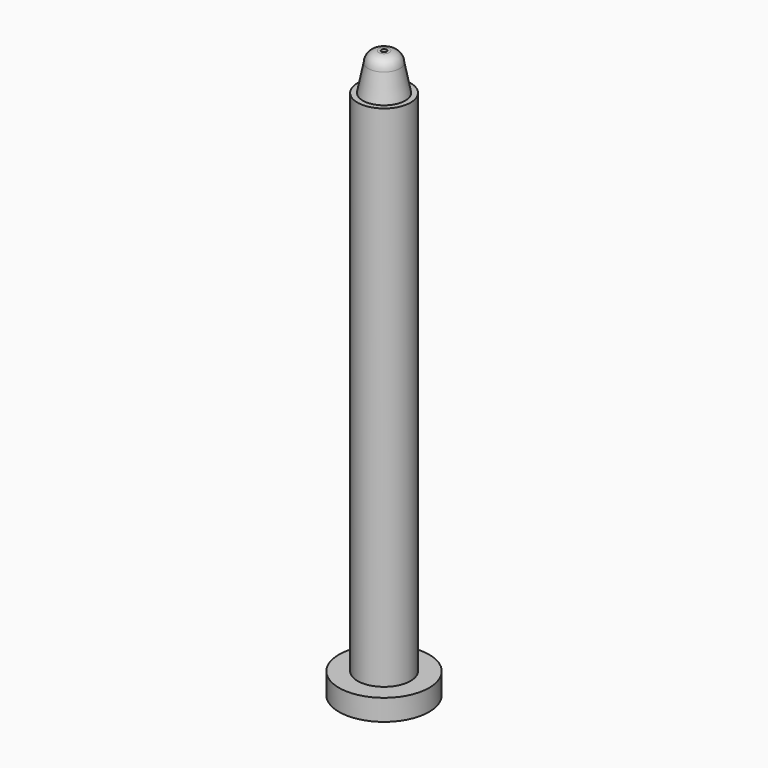
from build123d import *

# Parameters (mm, degrees)
F0_R     = 8.5
F1_DEPTH = 4
F2_R     = 5
F3_DEPTH = 100
F8_R     = 0.5
F9_DEPTH = 112.7


with BuildPart() as f1:
    # F0 (on Top) → F1 (new body)
    with BuildSketch(Plane.XY):
        Circle(F0_R)
    extrude(amount=F1_DEPTH)

    # F2 (on Top) → F3 (join)
    with BuildSketch(Plane.XY):
        Circle(F2_R)
    extrude(amount=F3_DEPTH)

    # F4 (on Right) → F5 (revolve)
    with BuildSketch(Plane.YZ):
        Polygon((3, 105), (0, 105), (0, 100), (4, 100), align=None)
    revolve(axis=Axis((0, 0, 102.5), (0, 0, -1)))

    # F6 (on Right) → F7 (revolve)
    with BuildSketch(Plane.YZ):
        with BuildLine():
            Line((1, 107), (0, 107))
            Line((0, 107), (0, 105))
            Line((0, 105), (3, 105))
            ThreePointArc((3, 105), (2.414214, 106.414214), (1, 107))
        make_face()
    revolve(axis=Axis((0, 0, 106), (0, 0, -1)))

    # F8 (on face) → F9 (cut)
    with BuildSketch(Plane.XY.offset(107)):
        Circle(F8_R)
    extrude(amount=-F9_DEPTH, mode=Mode.SUBTRACT)


solid = f1.part
